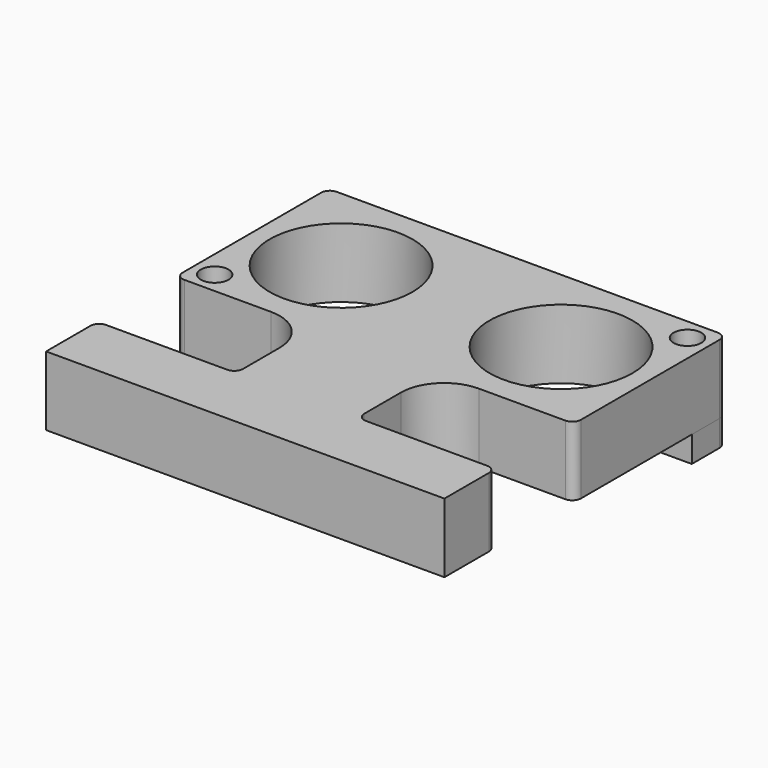
from build123d import *

# Parameters (mm, degrees)
F0_R     = 8.25
F0_R_2   = 1.6
F1_DEPTH = 8
F2_DEPTH = 3


with BuildPart() as f1:
    # F0 (on Top) → F1 (new body)
    with BuildSketch(Plane.XY):
        with BuildLine():
            Line((-23, -29.708343), (23, -29.708343))
            Line((23, -29.708343), (23, -23.291657))
            ThreePointArc((23, -23.291657), (22.707107, -22.58455), (22, -22.291657))
            Line((22, -22.291657), (8, -22.291657))
            ThreePointArc((8, -22.291657), (7.292893, -21.998763), (7, -21.291657))
            Line((7, -21.291657), (7, -16))
            ThreePointArc((7, -16), (8.464466, -12.464466), (12, -11))
            Line((12, -11), (22, -11))
            ThreePointArc((22, -11), (22.707107, -10.707107), (23, -10))
            Line((23, -10), (23, 6))
            Line((23, 6), (19, 6))
            ThreePointArc((19, 6), (18.292893, 6.292893), (18, 7))
            Line((18, 7), (18, 11))
            Line((18, 11), (-22, 11))
            ThreePointArc((-22, 11), (-22.707107, 10.707107), (-23, 10))
            Line((-23, 10), (-23, -6))
            Line((-23, -6), (-19, -6))
            ThreePointArc((-19, -6), (-18.292893, -6.292893), (-18, -7))
            Line((-18, -7), (-18, -11))
            Line((-18, -11), (-12, -11))
            ThreePointArc((-12, -11), (-8.464466, -12.464466), (-7, -16))
            Line((-7, -16), (-7, -21.291657))
            ThreePointArc((-7, -21.291657), (-7.292893, -21.998763), (-8, -22.291657))
            Line((-8, -22.291657), (-22, -22.291657))
            ThreePointArc((-22, -22.291657), (-22.707107, -22.58455), (-23, -23.291657))
            Line((-23, -23.291657), (-23, -29.708343))
        make_face()
        with Locations((-12.7, 0)):
            Circle(F0_R, mode=Mode.SUBTRACT)
        with Locations((12.7, 0)):
            Circle(F0_R, mode=Mode.SUBTRACT)
        with BuildLine():
            Line((19, 6), (23, 6))
            Line((23, 6), (23, 10))
            ThreePointArc((23, 10), (22.707107, 10.707107), (22, 11))
            Line((22, 11), (18, 11))
            Line((18, 11), (18, 7))
            ThreePointArc((18, 7), (18.292893, 6.292893), (19, 6))
        make_face()
        with Locations((20.5, 8.5)):
            Circle(F0_R_2, mode=Mode.SUBTRACT)
        with BuildLine():
            Line((-22, -11), (-18, -11))
            Line((-18, -11), (-18, -7))
            ThreePointArc((-18, -7), (-18.292893, -6.292893), (-19, -6))
            Line((-19, -6), (-23, -6))
            Line((-23, -6), (-23, -10))
            ThreePointArc((-23, -10), (-22.707107, -10.707107), (-22, -11))
        make_face()
        with Locations((-20.5, -8.5)):
            Circle(F0_R_2, mode=Mode.SUBTRACT)
    extrude(amount=F1_DEPTH)

    # F0 (on Top) → F2 (join)
    with BuildSketch(Plane.XY):
        with BuildLine():
            Line((-22, -11), (-18, -11))
            Line((-18, -11), (-18, -7))
            ThreePointArc((-18, -7), (-18.292893, -6.292893), (-19, -6))
            Line((-19, -6), (-23, -6))
            Line((-23, -6), (-23, -10))
            ThreePointArc((-23, -10), (-22.707107, -10.707107), (-22, -11))
        make_face()
        with Locations((-20.5, -8.5)):
            Circle(F0_R_2, mode=Mode.SUBTRACT)
        with BuildLine():
            Line((19, 6), (23, 6))
            Line((23, 6), (23, 10))
            ThreePointArc((23, 10), (22.707107, 10.707107), (22, 11))
            Line((22, 11), (18, 11))
            Line((18, 11), (18, 7))
            ThreePointArc((18, 7), (18.292893, 6.292893), (19, 6))
        make_face()
        with Locations((20.5, 8.5)):
            Circle(F0_R_2, mode=Mode.SUBTRACT)
    extrude(amount=-F2_DEPTH)


solid = f1.part
